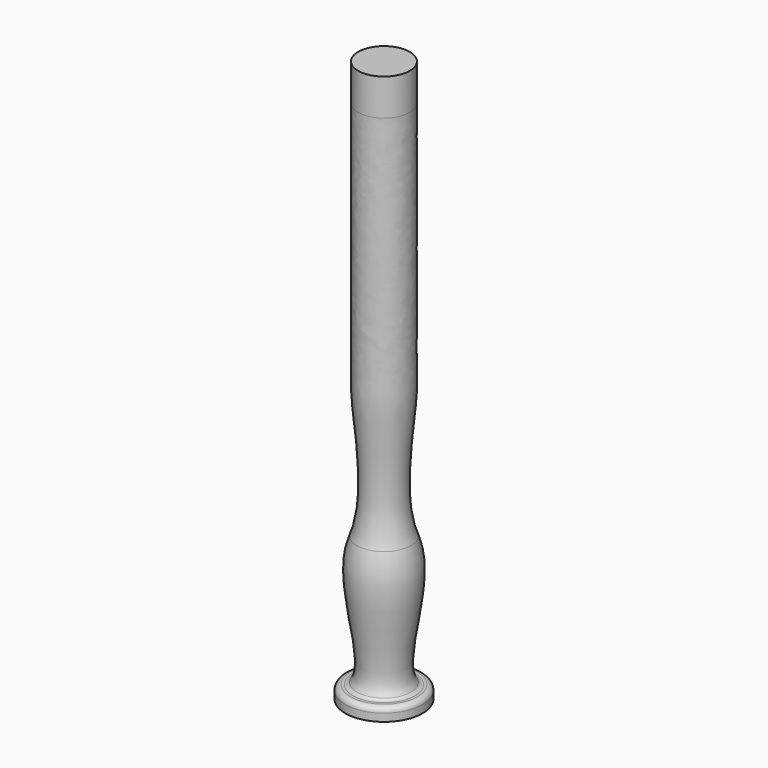
from build123d import *


with BuildPart() as f1:
    # F0 (on Front) → F1 (revolve)
    with BuildSketch(Plane.XZ):
        with BuildLine():
            Line((32.97646, -255.911327), (32.97646, 284.373549))
            Line((32.97646, 284.373549), (7.57646, 284.373549))
            Line((7.57646, 284.373549), (7.57646, 248.330043))
            add(Edge.make_bspline(
                [(7.57646, 127), (7.57646, 169.495269), (7.57646, 210.378019), (7.57646, 248.330043)],
                knots=[0, 0, 0, 0, 121.330043, 121.330043, 121.330043, 121.330043], degree=3))
            add(Edge.make_bspline(
                [(7.57646, 0), (7.57646, 43.884717), (7.57646, 89.199349), (7.57646, 127)],
                knots=[0, 0, 0, 0, 127, 127, 127, 127], degree=3))
            add(Edge.make_bspline(
                [(6.467091, -127), (20.825056, -92.807998), (7.57646, -20.899639), (7.57646, 0)],
                knots=[0, 0, 0, 0, 127.004845, 127.004845, 127.004845, 127.004845], degree=3))
            add(Edge.make_bspline(
                [(6.467091, -254), (21.641339, -234.98531), (-10.096919, -166.445472), (6.467091, -127)],
                knots=[0, 0, 0, 0, 127, 127, 127, 127], degree=3))
            ThreePointArc((6.467091, -254), (4.699815, -255.408622), (2.49646, -255.911327))
            Line((2.49646, -255.911327), (-0.04354, -255.911327))
            ThreePointArc((-0.04354, -255.911327), (-3.635642, -257.399224), (-5.12354, -260.991327))
            Line((-5.12354, -260.991327), (-5.12354, -268.611327))
            Line((-5.12354, -268.611327), (32.97646, -268.611327))
            Line((32.97646, -268.611327), (32.97646, -255.911327))
        make_face()
    revolve(axis=Axis((32.97646, 0, 14.231111), (0, 0, -1)))


solid = f1.part
